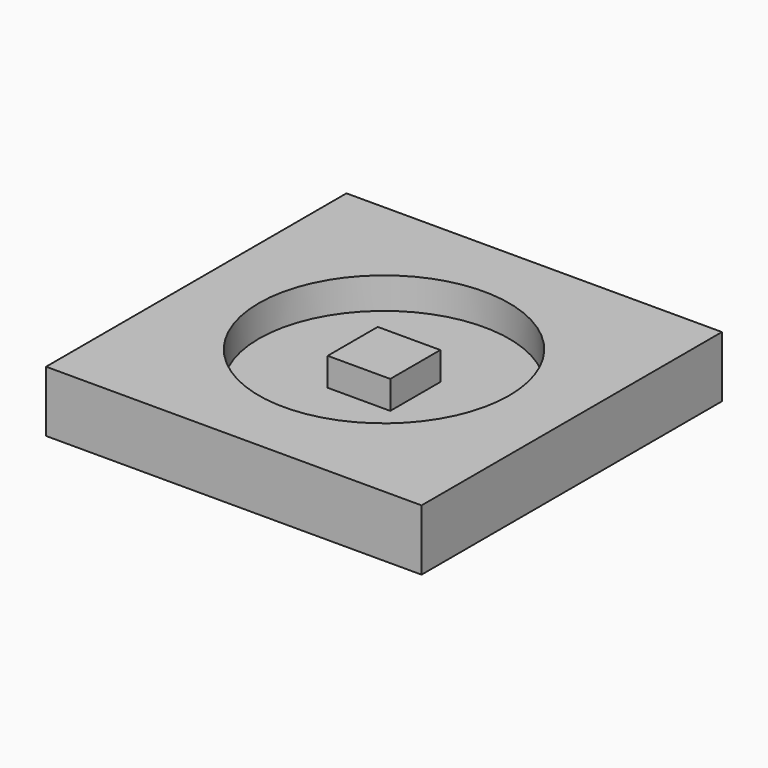
from build123d import *

# Parameters (mm, degrees)
F0_W     = 120
F0_H     = 120
F1_DEPTH = 19.5
F2_R     = 40
F3_DEPTH = 10
F4_W     = 20
F4_H     = 20
F6_DEPTH = 9


with BuildPart() as f1:
    # F0 (on Top) → F1 (new body)
    with BuildSketch(Plane.XY):
        with Locations((60, 60)):
            Rectangle(F0_W, F0_H)
    extrude(amount=F1_DEPTH)

    # F2 (on face) → F3 (cut)
    with BuildSketch(Plane.XY.offset(19.5)):
        with Locations((60, 60)):
            Circle(F2_R)
    extrude(amount=-F3_DEPTH, mode=Mode.SUBTRACT)

    # F4 (on face) → F6 (join)
    with BuildSketch(Plane.XY.offset(9.5)):
        with Locations((60, 60)):
            Rectangle(F4_W, F4_H)
    extrude(amount=F6_DEPTH)


solid = f1.part
